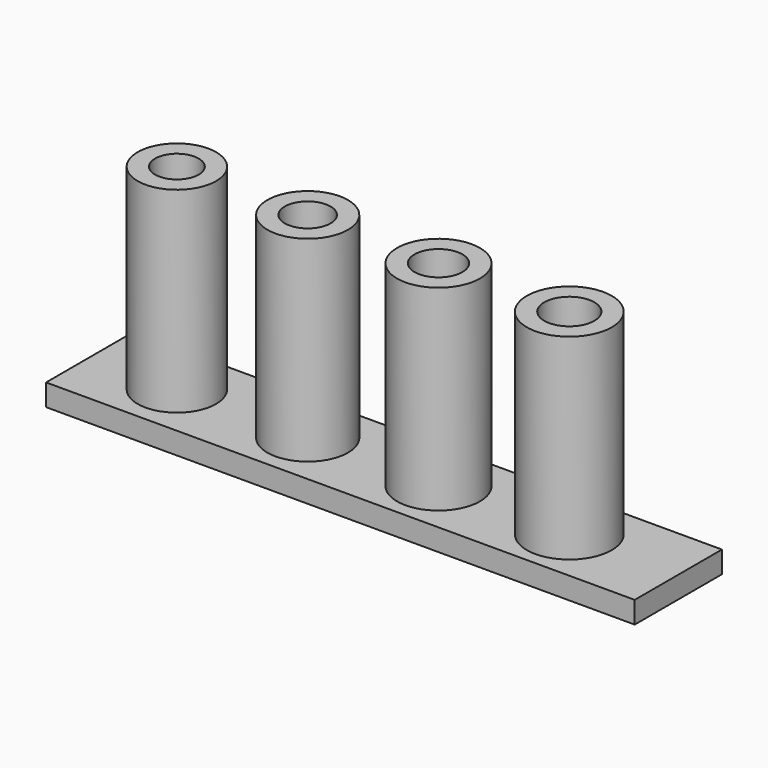
from build123d import *

# Parameters (mm, degrees)
BOX_W          = 30
BOX_H          = 5
BOX_DEPTH      = 2
CIRCLE_R       = 1
PAD_DEPTH      = 10
THICKNESS_T    = 0.8
BOX001_W       = 30
BOX001_H       = 5
BOX001_DEPTH   = 2
CIRCLE001_R    = 1.05
PAD001_DEPTH   = 10
THICKNESS001_T = 0.8
BOX002_W       = 30
BOX002_H       = 5
BOX002_DEPTH   = 2
CIRCLE002_R    = 1.1
PAD002_DEPTH   = 10
THICKNESS002_T = 0.8
BOX003_W       = 30
BOX003_H       = 5
BOX003_DEPTH   = 2
CIRCLE003_R    = 1.15
PAD003_DEPTH   = 10
THICKNESS003_T = 0.8
CIRCLE007_R    = 1.1
PAD007_DEPTH   = 10
CIRCLE006_R    = 1.15
PAD006_DEPTH   = 10
CIRCLE005_R    = 1.05
PAD005_DEPTH   = 10
CIRCLE004_R    = 1
PAD004_DEPTH   = 10
BOX004_W       = 27
BOX004_H       = 5
BOX004_DEPTH   = 1


with BuildPart() as cube:
    # Box → Box (new body)
    with BuildSketch(Plane(origin=(-15, -3, -1), x_dir=(1, 0, 0), z_dir=(0, 0, 1))):
        with Locations((15, 2.5)):
            Rectangle(BOX_W, BOX_H)
    extrude(amount=BOX_DEPTH)


with BuildPart() as cut:
    # Circle → Pad (new body)
    with BuildSketch(Plane(origin=(-10, 0, 0), x_dir=(1, 0, 0), z_dir=(0, 0, 1))):
        Circle(CIRCLE_R)
    extrude(amount=PAD_DEPTH)

    # Thickness
    thickness_openings = [cut.faces().sort_by_distance(p)[0] for p in [
        (-10, 0, 10),
    ]]
    offset(amount=THICKNESS_T, openings=thickness_openings, kind=Kind.INTERSECTION)

    # Cut: cut Cube
    add(cube.part, mode=Mode.SUBTRACT)


with BuildPart() as cube001:
    # Box001 → Box001 (new body)
    with BuildSketch(Plane(origin=(-15, -3, -1), x_dir=(1, 0, 0), z_dir=(0, 0, 1))):
        with Locations((15, 2.5)):
            Rectangle(BOX001_W, BOX001_H)
    extrude(amount=BOX001_DEPTH)


with BuildPart() as cut001:
    # Circle001 → Pad001 (new body)
    with BuildSketch(Plane(origin=(-4, 0, 0), x_dir=(1, 0, 0), z_dir=(0, 0, 1))):
        Circle(CIRCLE001_R)
    extrude(amount=PAD001_DEPTH)

    # Thickness001
    thickness001_openings = [cut001.faces().sort_by_distance(p)[0] for p in [
        (-4, 0, 10),
    ]]
    offset(amount=THICKNESS001_T, openings=thickness001_openings)

    # Cut001: cut Cube001
    add(cube001.part, mode=Mode.SUBTRACT)


with BuildPart() as cube002:
    # Box002 → Box002 (new body)
    with BuildSketch(Plane(origin=(-15, -3, -1), x_dir=(1, 0, 0), z_dir=(0, 0, 1))):
        with Locations((15, 2.5)):
            Rectangle(BOX002_W, BOX002_H)
    extrude(amount=BOX002_DEPTH)


with BuildPart() as cut002:
    # Circle002 → Pad002 (new body)
    with BuildSketch(Plane(origin=(2, 0, 0), x_dir=(1, 0, 0), z_dir=(0, 0, 1))):
        Circle(CIRCLE002_R)
    extrude(amount=PAD002_DEPTH)

    # Thickness002
    thickness002_openings = [cut002.faces().sort_by_distance(p)[0] for p in [
        (2, 0, 10),
    ]]
    offset(amount=THICKNESS002_T, openings=thickness002_openings)

    # Cut002: cut Cube002
    add(cube002.part, mode=Mode.SUBTRACT)


with BuildPart() as cube003:
    # Box003 → Box003 (new body)
    with BuildSketch(Plane(origin=(-15, -3, -1), x_dir=(1, 0, 0), z_dir=(0, 0, 1))):
        with Locations((15, 2.5)):
            Rectangle(BOX003_W, BOX003_H)
    extrude(amount=BOX003_DEPTH)


with BuildPart() as cut003:
    # Circle003 → Pad003 (new body)
    with BuildSketch(Plane(origin=(8, 0, 0), x_dir=(1, 0, 0), z_dir=(0, 0, 1))):
        Circle(CIRCLE003_R)
    extrude(amount=PAD003_DEPTH)

    # Thickness003
    thickness003_openings = [cut003.faces().sort_by_distance(p)[0] for p in [
        (8, 0, 10),
    ]]
    offset(amount=THICKNESS003_T, openings=thickness003_openings)

    # Cut003: cut Cube003
    add(cube003.part, mode=Mode.SUBTRACT)


with BuildPart() as pad007:
    # Circle007 → Pad007 (new body)
    with BuildSketch(Plane(origin=(2, 0, 0), x_dir=(1, 0, 0), z_dir=(0, 0, 1))):
        Circle(CIRCLE007_R)
    extrude(amount=PAD007_DEPTH)


with BuildPart() as pad006:
    # Circle006 → Pad006 (new body)
    with BuildSketch(Plane(origin=(8, 0, 0), x_dir=(1, 0, 0), z_dir=(0, 0, 1))):
        Circle(CIRCLE006_R)
    extrude(amount=PAD006_DEPTH)


with BuildPart() as pad005:
    # Circle005 → Pad005 (new body)
    with BuildSketch(Plane(origin=(-4, 0, 0), x_dir=(1, 0, 0), z_dir=(0, 0, 1))):
        Circle(CIRCLE005_R)
    extrude(amount=PAD005_DEPTH)


with BuildPart() as pad004:
    # Circle004 → Pad004 (new body)
    with BuildSketch(Plane(origin=(-10, 0, 0), x_dir=(1, 0, 0), z_dir=(0, 0, 1))):
        Circle(CIRCLE004_R)
    extrude(amount=PAD004_DEPTH)


with BuildPart() as cut007:
    # Box004 → Box004 (new body)
    with BuildSketch(Plane(origin=(-14, -2.5, 0), x_dir=(1, 0, 0), z_dir=(0, 0, 1))):
        with Locations((13.5, 2.5)):
            Rectangle(BOX004_W, BOX004_H)
    extrude(amount=BOX004_DEPTH)

    # Cut004: cut Pad004
    add(pad004.part, mode=Mode.SUBTRACT)

    # Cut005: cut Pad005
    add(pad005.part, mode=Mode.SUBTRACT)

    # Cut006: cut Pad006
    add(pad006.part, mode=Mode.SUBTRACT)

    # Cut007: cut Pad007
    add(pad007.part, mode=Mode.SUBTRACT)


solid = Compound([cut.part, cut001.part, cut002.part, cut003.part, cut007.part])
